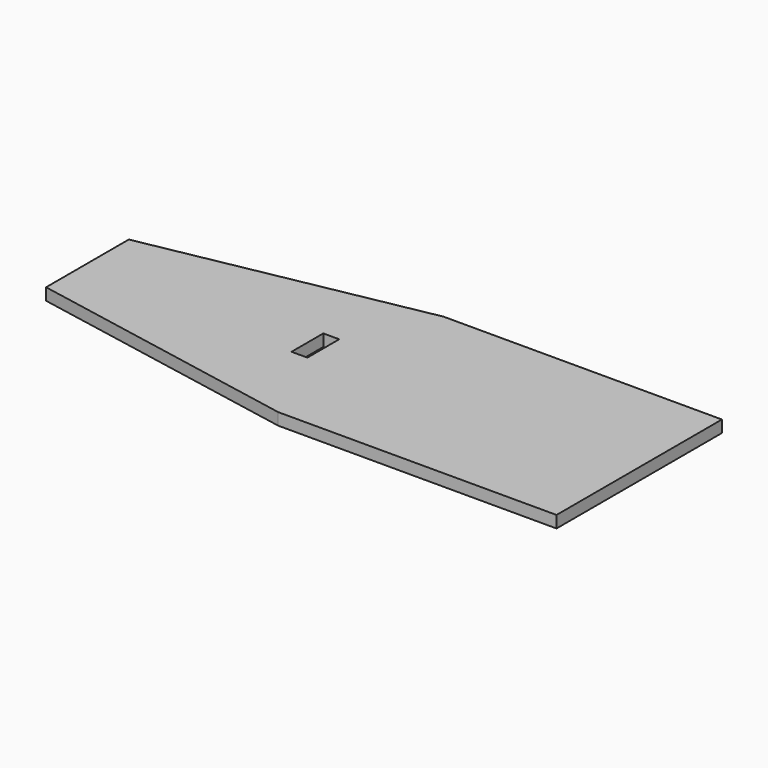
from build123d import *

# Parameters (mm, degrees)
F0_W     = 175
F0_H     = 130
F1_DEPTH = 7.5
F2_W     = 10
F2_H     = 25
F3_DEPTH = 7.5


with BuildPart() as f1:
    # F0 (on Top) → F1 (new body)
    with BuildSketch(Plane.XY):
        with Locations((87.5, 0)):
            Rectangle(F0_W, F0_H)
        Polygon((0, -65), (0, 65), (-171.955663, 32.5), (-171.955663, -32.5), align=None)
    extrude(amount=F1_DEPTH)

    # F2 (on Top) → F3 (cut)
    with BuildSketch(Plane.XY):
        with Locations((-30, 1.70486)):
            Rectangle(F2_W, F2_H)
    extrude(amount=F3_DEPTH, mode=Mode.SUBTRACT)


solid = f1.part
